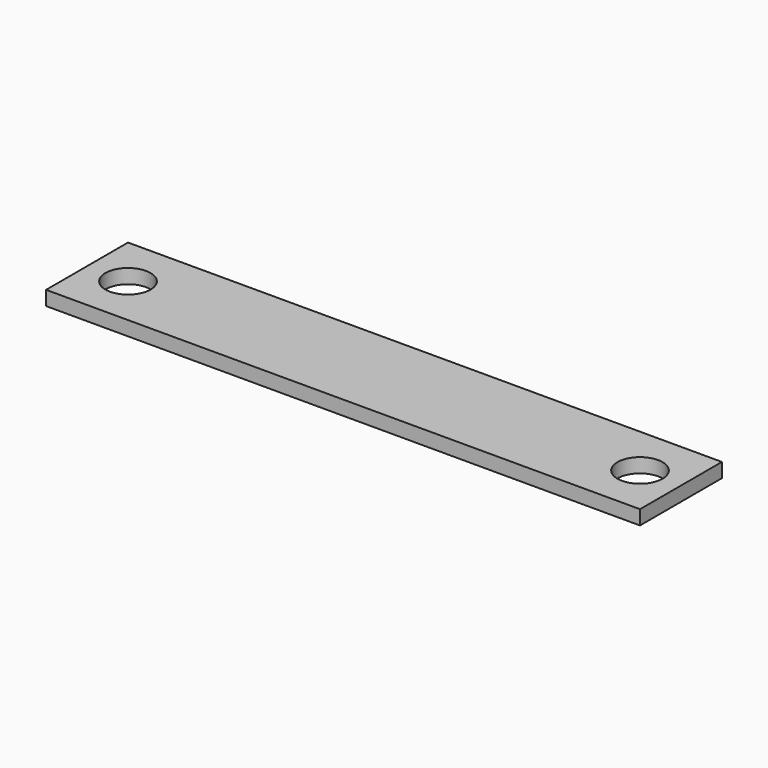
from build123d import *

# Parameters (mm, degrees)
SKETCH_W  = 290
SKETCH_H  = 50
SKETCH_R  = 11
PAD_DEPTH = 7


with BuildPart() as part:
    # Sketch → Pad (new body)
    with BuildSketch(Plane.XY):
        with Locations((125, 0)):
            Rectangle(SKETCH_W, SKETCH_H)
        Circle(SKETCH_R, mode=Mode.SUBTRACT)
        with Locations((250, 0)):
            Circle(SKETCH_R, mode=Mode.SUBTRACT)
    extrude(amount=PAD_DEPTH)


solid = part.part
